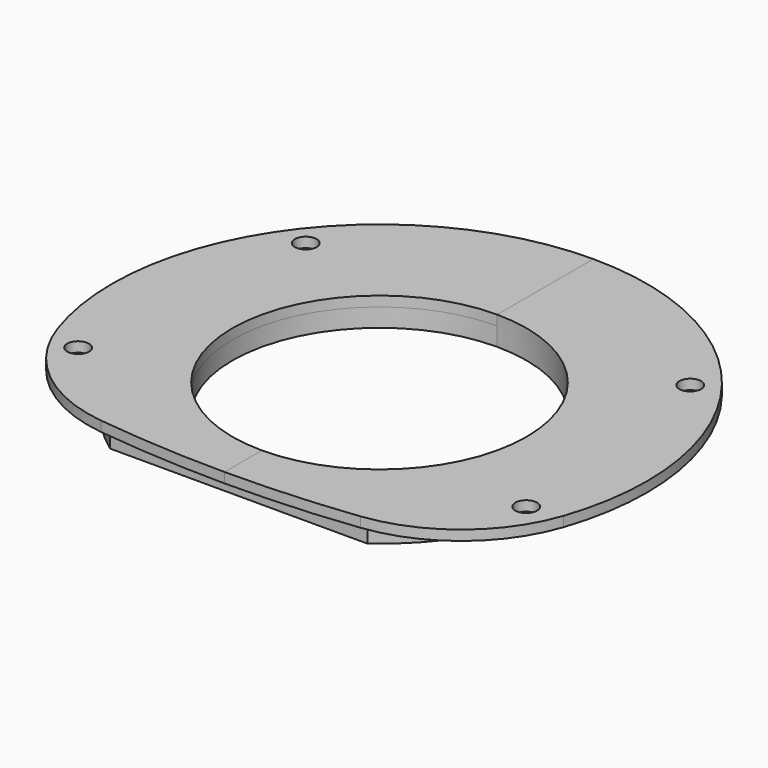
from build123d import *

# Parameters (mm, degrees)
PAD_DEPTH    = 3
PAD001_DEPTH = 5.5
SKETCH002_R  = 3.25
POCKET_DEPTH = 5


with BuildPart() as part:
    # Sketch → Pad (new body)
    with BuildSketch(Plane.XY):
        with BuildLine():
            ThreePointArc((0, -44), (44, 0), (0, 44))
            Line((0, 80), (0, 44))
            ThreePointArc((75.734063, -25.775021), (65.046144, 46.572515), (0, 80))
            ThreePointArc((38.857167, -55.659898), (61.606206, -46.036578), (75.734063, -25.775021))
            ThreePointArc((0, -57.981235), (19.463222, -57.400384), (38.857167, -55.659898))
            Line((0, -57.981235), (0, -44))
        make_face()
    pad = extrude(amount=PAD_DEPTH)

    # Sketch001 (on Face7 of Pad) → Pad001 (join)
    with BuildSketch(Plane(origin=(0, 0, 0), x_dir=(1, 0, 0), z_dir=(0, 0, -1))):
        with BuildLine():
            ThreePointArc((0, -65.25), (62.028272, -20.249839), (38.5, 52.681235))
            Line((38.5, 52.681235), (0, 52.681235))
            Line((0, 44), (0, 52.681235))
            ThreePointArc((0, -44), (44, 0), (0, 44))
            Line((0, -44), (0, -65.25))
        make_face()
    pad001 = extrude(amount=PAD001_DEPTH)

    # Mirrored: Pad, Pad001 across Sketch V_Axis
    add(pad.mirror(Plane(origin=(0, 0, 0), x_dir=(0, 0, 1), z_dir=(1, 0, 0))))
    add(pad001.mirror(Plane(origin=(0, 0, 0), x_dir=(0, 0, 1), z_dir=(1, 0, 0))))

    # Sketch002 (on Face4 of Mirrored) → Pocket (cut)
    with BuildSketch(Plane(origin=(0, 0, 0), x_dir=(1, 0, 0), z_dir=(0, 0, -1))):
        with Locations((65.987317, 27.62811)):
            Circle(SKETCH002_R)
        with Locations((57.5, -44.318765)):
            Circle(SKETCH002_R)
        with Locations((-57.5, -44.318765)):
            Circle(SKETCH002_R)
        with Locations((-65.987317, 30.215763)):
            Circle(SKETCH002_R)
    extrude(amount=-POCKET_DEPTH, mode=Mode.SUBTRACT)


solid = part.part
